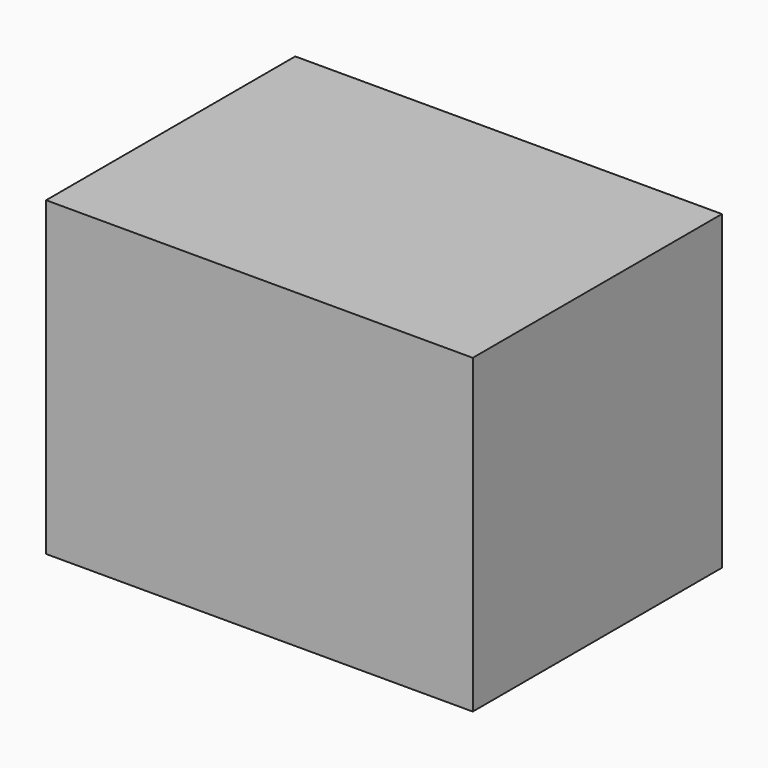
from build123d import *

# Parameters (mm, degrees)
F0_W     = 50
F0_H     = 45
F1_DEPTH = 137


with BuildPart() as f1:
    # F0 (on Right) → F1 (new body)
    with BuildSketch(Plane.YZ):
        with BuildLine():
            Line((0, 100), (0, 0))
            Line((0, 0), (36.25, 0))
            ThreePointArc((36.25, 0), (50, 13.75), (63.75, 0))
            Line((63.75, 0), (100, 0))
            Line((100, 0), (100, 55))
            Line((100, 55), (50, 55))
            Line((50, 55), (50, 100))
            Line((50, 100), (0, 100))
        make_face()
        with BuildLine():
            ThreePointArc((63.75, 0), (50, 13.75), (36.25, 0))
            Line((36.25, 0), (63.75, 0))
        make_face()
        with Locations((75, 77.5)):
            Rectangle(F0_W, F0_H)
    extrude(amount=-F1_DEPTH)


solid = f1.part
